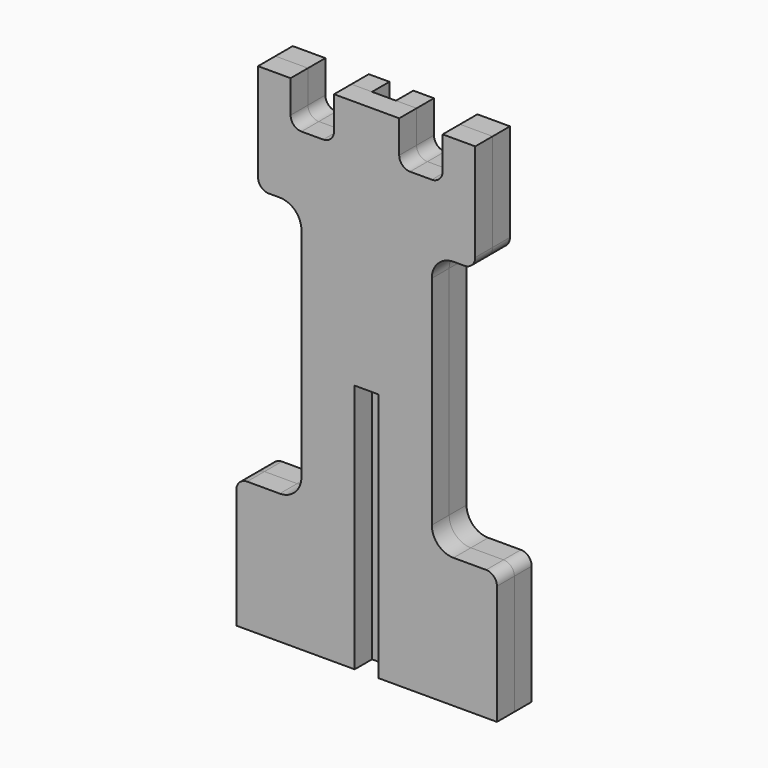
from build123d import *

# Parameters (mm, degrees)
F0_W     = 11
F0_H     = 65
F0_H_2   = 50
F1_DEPTH = 10
F0_H_3   = 60
F0_H_4   = 55
F2_DEPTH = 10


with BuildPart() as f1:
    # F0 (on Front) → F1 (new body)
    with BuildSketch(Plane.XZ):
        with Locations((0, 117.5)):
            Rectangle(F0_W, F0_H)
        with BuildLine():
            ThreePointArc((-30, 40), (-32.928932, 32.928932), (-40, 30))
            Line((-40, 30), (-55, 30))
            ThreePointArc((-55, 30), (-58.535534, 28.535534), (-60, 25))
            Line((-60, 25), (-60, -30))
            Line((-60, -30), (-5.5, -30))
            Line((-5.5, -30), (-5.5, 30))
            Line((-5.5, 30), (-5.5, 85))
            Line((-5.5, 85), (-5.5, 150))
            Line((-5.5, 150), (-5.5, 200))
            Line((-5.5, 200), (-15, 200))
            Line((-15, 200), (-15, 185))
            ThreePointArc((-15, 185), (-16.464466, 181.464466), (-20, 180))
            Line((-20, 180), (-30, 180))
            ThreePointArc((-30, 180), (-33.535534, 181.464466), (-35, 185))
            Line((-35, 185), (-35, 200))
            Line((-35, 200), (-50, 200))
            Line((-50, 200), (-50, 155))
            ThreePointArc((-50, 155), (-48.535534, 151.464466), (-45, 150))
            Line((-45, 150), (-40, 150))
            ThreePointArc((-40, 150), (-32.928932, 147.071068), (-30, 140))
            Line((-30, 140), (-30, 40))
        make_face()
        with Locations((0, 175)):
            Rectangle(F0_W, F0_H_2)
        with BuildLine():
            Line((5.5, 30), (5.5, -30))
            Line((5.5, -30), (60, -30))
            Line((60, -30), (60, 25))
            ThreePointArc((60, 25), (58.535534, 28.535534), (55, 30))
            Line((55, 30), (40, 30))
            ThreePointArc((40, 30), (32.928932, 32.928932), (30, 40))
            Line((30, 40), (30, 140))
            ThreePointArc((30, 140), (32.928932, 147.071068), (40, 150))
            Line((40, 150), (45, 150))
            ThreePointArc((45, 150), (48.535534, 151.464466), (50, 155))
            Line((50, 155), (50, 200))
            Line((50, 200), (35, 200))
            Line((35, 200), (35, 185))
            ThreePointArc((35, 185), (33.535534, 181.464466), (30, 180))
            Line((30, 180), (20, 180))
            ThreePointArc((20, 180), (16.464466, 181.464466), (15, 185))
            Line((15, 185), (15, 200))
            Line((15, 200), (5.5, 200))
            Line((5.5, 200), (5.5, 150))
            Line((5.5, 150), (5.5, 85))
            Line((5.5, 85), (5.5, 30))
        make_face()
    extrude(amount=F1_DEPTH)


with BuildPart() as f2:
    # F0 (on Front) → F2 (new body)
    with BuildSketch(Plane.XZ):
        Rectangle(F0_W, F0_H_3)
        with BuildLine():
            ThreePointArc((-30, 40), (-32.928932, 32.928932), (-40, 30))
            Line((-40, 30), (-55, 30))
            ThreePointArc((-55, 30), (-58.535534, 28.535534), (-60, 25))
            Line((-60, 25), (-60, -30))
            Line((-60, -30), (-5.5, -30))
            Line((-5.5, -30), (-5.5, 30))
            Line((-5.5, 30), (-5.5, 85))
            Line((-5.5, 85), (-5.5, 150))
            Line((-5.5, 150), (-5.5, 200))
            Line((-5.5, 200), (-15, 200))
            Line((-15, 200), (-15, 185))
            ThreePointArc((-15, 185), (-16.464466, 181.464466), (-20, 180))
            Line((-20, 180), (-30, 180))
            ThreePointArc((-30, 180), (-33.535534, 181.464466), (-35, 185))
            Line((-35, 185), (-35, 200))
            Line((-35, 200), (-50, 200))
            Line((-50, 200), (-50, 155))
            ThreePointArc((-50, 155), (-48.535534, 151.464466), (-45, 150))
            Line((-45, 150), (-40, 150))
            ThreePointArc((-40, 150), (-32.928932, 147.071068), (-30, 140))
            Line((-30, 140), (-30, 40))
        make_face()
        with BuildLine():
            Line((5.5, 30), (5.5, -30))
            Line((5.5, -30), (60, -30))
            Line((60, -30), (60, 25))
            ThreePointArc((60, 25), (58.535534, 28.535534), (55, 30))
            Line((55, 30), (40, 30))
            ThreePointArc((40, 30), (32.928932, 32.928932), (30, 40))
            Line((30, 40), (30, 140))
            ThreePointArc((30, 140), (32.928932, 147.071068), (40, 150))
            Line((40, 150), (45, 150))
            ThreePointArc((45, 150), (48.535534, 151.464466), (50, 155))
            Line((50, 155), (50, 200))
            Line((50, 200), (35, 200))
            Line((35, 200), (35, 185))
            ThreePointArc((35, 185), (33.535534, 181.464466), (30, 180))
            Line((30, 180), (20, 180))
            ThreePointArc((20, 180), (16.464466, 181.464466), (15, 185))
            Line((15, 185), (15, 200))
            Line((15, 200), (5.5, 200))
            Line((5.5, 200), (5.5, 150))
            Line((5.5, 150), (5.5, 85))
            Line((5.5, 85), (5.5, 30))
        make_face()
        with Locations((0, 57.5)):
            Rectangle(F0_W, F0_H_4)
    extrude(amount=-F2_DEPTH)


solid = Compound([f1.part, f2.part])
